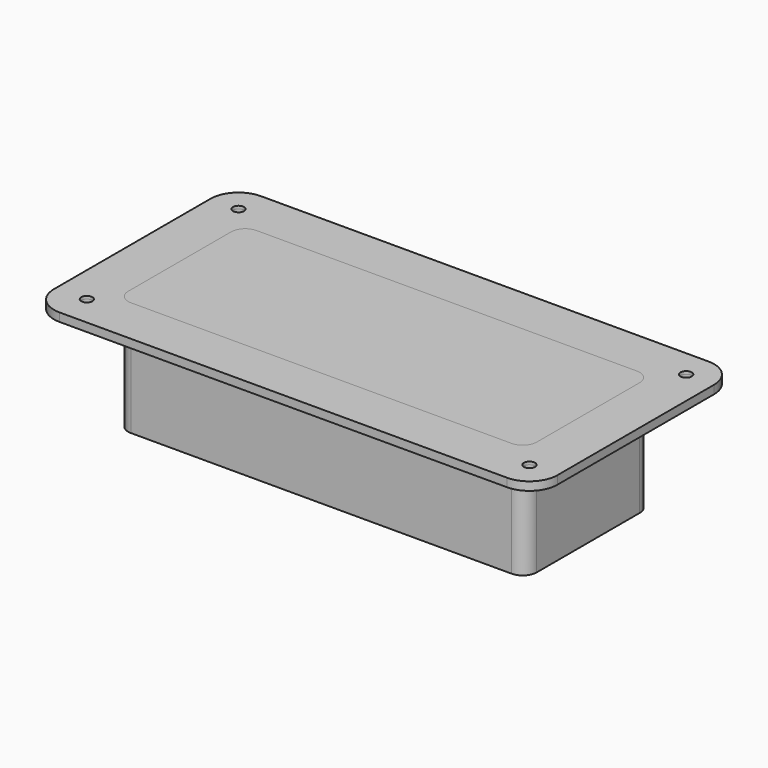
from build123d import *

# Parameters (mm, degrees)
F1_DEPTH = 40
F0_R     = 2
F2_DEPTH = 1
F3_DEPTH = 2
F4_DEPTH = 1


with BuildPart() as f1:
    # F0 (on Top) → F1 (new body)
    with BuildSketch(Plane.XY):
        with BuildLine():
            Line((23.4693709612, 14.670217514), (-112.5306290388, 14.670217514))
            ThreePointArc((-112.5306290388, 14.670217514), (-116.0661629447, 13.20575142), (-117.5306290388, 9.670217514))
            Line((-117.5306290388, 9.670217514), (-117.5306290388, -36.329782486))
            ThreePointArc((-117.5306290388, -36.329782486), (-116.0661629447, -39.8653163919), (-112.5306290388, -41.329782486))
            Line((-112.5306290388, -41.329782486), (23.4693709612, -41.329782486))
            ThreePointArc((23.4693709612, -41.329782486), (27.0049048671, -39.8653163919), (28.4693709612, -36.329782486))
            Line((28.4693709612, -36.329782486), (28.4693709612, 9.670217514))
            ThreePointArc((28.4693709612, 9.670217514), (27.0049048671, 13.20575142), (23.4693709612, 14.670217514))
        make_face()
        with BuildLine():
            ThreePointArc((-114.5306290388, 9.670217514), (-113.9448426012, 11.0844310764), (-112.5306290388, 11.670217514))
            Line((-112.5306290388, 11.670217514), (23.4693709612, 11.670217514))
            ThreePointArc((23.4693709612, 11.670217514), (24.8835845236, 11.0844310764), (25.4693709612, 9.670217514))
            Line((25.4693709612, 9.670217514), (25.4693709612, -36.329782486))
            ThreePointArc((25.4693709612, -36.329782486), (24.8835845236, -37.7439960483), (23.4693709612, -38.329782486))
            Line((23.4693709612, -38.329782486), (-112.5306290388, -38.329782486))
            ThreePointArc((-112.5306290388, -38.329782486), (-113.9448426012, -37.7439960483), (-114.5306290388, -36.329782486))
            Line((-114.5306290388, -36.329782486), (-114.5306290388, 9.670217514))
        make_face(mode=Mode.SUBTRACT)
    extrude(amount=-F1_DEPTH)



with BuildPart() as f2:
    # F0 (on Top) → F2 (new body)
    with BuildSketch(Plane.XY):
        with BuildLine():
            ThreePointArc((-124.5306290388, 31.670217514), (-131.6016968507, 28.7412853259), (-134.5306290388, 21.670217514))
            Line((-134.5306290388, 21.670217514), (-134.5306290388, -48.329782486))
            ThreePointArc((-134.5306290388, -48.329782486), (-131.6016968507, -55.4008502978), (-124.5306290388, -58.329782486))
            Line((-124.5306290388, -58.329782486), (35.4693709612, -58.329782486))
            ThreePointArc((35.4693709612, -58.329782486), (42.5404387731, -55.4008502978), (45.4693709612, -48.329782486))
            Line((45.4693709612, -48.329782486), (45.4693709612, 21.670217514))
            ThreePointArc((45.4693709612, 21.670217514), (42.5404387731, 28.7412853259), (35.4693709612, 31.670217514))
            Line((35.4693709612, 31.670217514), (-124.5306290388, 31.670217514))
        make_face()
        with Locations((-123.5306290388, -47.329782486)):
            Circle(F0_R, mode=Mode.SUBTRACT)
        with Locations((35.4693709612, -48.329782486)):
            Circle(F0_R, mode=Mode.SUBTRACT)
        with Locations((-124.5306290388, 21.670217514)):
            Circle(F0_R, mode=Mode.SUBTRACT)
        with BuildLine():
            ThreePointArc((-117.5306290388, 9.670217514), (-116.0661629447, 13.20575142), (-112.5306290388, 14.670217514))
            Line((-112.5306290388, 14.670217514), (23.4693709612, 14.670217514))
            ThreePointArc((23.4693709612, 14.670217514), (27.0049048671, 13.20575142), (28.4693709612, 9.670217514))
            Line((28.4693709612, 9.670217514), (28.4693709612, -36.329782486))
            ThreePointArc((28.4693709612, -36.329782486), (27.0049048671, -39.8653163919), (23.4693709612, -41.329782486))
            Line((23.4693709612, -41.329782486), (-112.5306290388, -41.329782486))
            ThreePointArc((-112.5306290388, -41.329782486), (-116.0661629447, -39.8653163919), (-117.5306290388, -36.329782486))
            Line((-117.5306290388, -36.329782486), (-117.5306290388, 9.670217514))
        make_face(mode=Mode.SUBTRACT)
        with Locations((35.4693709612, 21.670217514)):
            Circle(F0_R, mode=Mode.SUBTRACT)
    extrude(amount=F2_DEPTH)


with BuildPart() as f1_1:
    add(f1.part)

    add(f2.part)  # F3 merges F2
    # F0 (on Top) → F3 (join)
    with BuildSketch(Plane.XY):
        with BuildLine():
            ThreePointArc((-124.5306290388, 31.670217514), (-131.6016968507, 28.7412853259), (-134.5306290388, 21.670217514))
            Line((-134.5306290388, 21.670217514), (-134.5306290388, -48.329782486))
            ThreePointArc((-134.5306290388, -48.329782486), (-131.6016968507, -55.4008502978), (-124.5306290388, -58.329782486))
            Line((-124.5306290388, -58.329782486), (35.4693709612, -58.329782486))
            ThreePointArc((35.4693709612, -58.329782486), (42.5404387731, -55.4008502978), (45.4693709612, -48.329782486))
            Line((45.4693709612, -48.329782486), (45.4693709612, 21.670217514))
            ThreePointArc((45.4693709612, 21.670217514), (42.5404387731, 28.7412853259), (35.4693709612, 31.670217514))
            Line((35.4693709612, 31.670217514), (-124.5306290388, 31.670217514))
        make_face()
        with Locations((-123.5306290388, -47.329782486)):
            Circle(F0_R, mode=Mode.SUBTRACT)
        with Locations((35.4693709612, -48.329782486)):
            Circle(F0_R, mode=Mode.SUBTRACT)
        with Locations((-124.5306290388, 21.670217514)):
            Circle(F0_R, mode=Mode.SUBTRACT)
        with BuildLine():
            ThreePointArc((-117.5306290388, 9.670217514), (-116.0661629447, 13.20575142), (-112.5306290388, 14.670217514))
            Line((-112.5306290388, 14.670217514), (23.4693709612, 14.670217514))
            ThreePointArc((23.4693709612, 14.670217514), (27.0049048671, 13.20575142), (28.4693709612, 9.670217514))
            Line((28.4693709612, 9.670217514), (28.4693709612, -36.329782486))
            ThreePointArc((28.4693709612, -36.329782486), (27.0049048671, -39.8653163919), (23.4693709612, -41.329782486))
            Line((23.4693709612, -41.329782486), (-112.5306290388, -41.329782486))
            ThreePointArc((-112.5306290388, -41.329782486), (-116.0661629447, -39.8653163919), (-117.5306290388, -36.329782486))
            Line((-117.5306290388, -36.329782486), (-117.5306290388, 9.670217514))
        make_face(mode=Mode.SUBTRACT)
        with Locations((35.4693709612, 21.670217514)):
            Circle(F0_R, mode=Mode.SUBTRACT)
    extrude(amount=-F3_DEPTH)

    # F0 (on Top) → F4 (join)
    with BuildSketch(Plane.XY):
        with BuildLine():
            Line((23.4693709612, 14.670217514), (-112.5306290388, 14.670217514))
            ThreePointArc((-112.5306290388, 14.670217514), (-116.0661629447, 13.20575142), (-117.5306290388, 9.670217514))
            Line((-117.5306290388, 9.670217514), (-117.5306290388, -36.329782486))
            ThreePointArc((-117.5306290388, -36.329782486), (-116.0661629447, -39.8653163919), (-112.5306290388, -41.329782486))
            Line((-112.5306290388, -41.329782486), (23.4693709612, -41.329782486))
            ThreePointArc((23.4693709612, -41.329782486), (27.0049048671, -39.8653163919), (28.4693709612, -36.329782486))
            Line((28.4693709612, -36.329782486), (28.4693709612, 9.670217514))
            ThreePointArc((28.4693709612, 9.670217514), (27.0049048671, 13.20575142), (23.4693709612, 14.670217514))
        make_face()
        with BuildLine():
            ThreePointArc((-114.5306290388, 9.670217514), (-113.9448426012, 11.0844310764), (-112.5306290388, 11.670217514))
            Line((-112.5306290388, 11.670217514), (23.4693709612, 11.670217514))
            ThreePointArc((23.4693709612, 11.670217514), (24.8835845236, 11.0844310764), (25.4693709612, 9.670217514))
            Line((25.4693709612, 9.670217514), (25.4693709612, -36.329782486))
            ThreePointArc((25.4693709612, -36.329782486), (24.8835845236, -37.7439960483), (23.4693709612, -38.329782486))
            Line((23.4693709612, -38.329782486), (-112.5306290388, -38.329782486))
            ThreePointArc((-112.5306290388, -38.329782486), (-113.9448426012, -37.7439960483), (-114.5306290388, -36.329782486))
            Line((-114.5306290388, -36.329782486), (-114.5306290388, 9.670217514))
        make_face(mode=Mode.SUBTRACT)
        with BuildLine():
            Line((23.4693709612, 11.670217514), (-112.5306290388, 11.670217514))
            ThreePointArc((-112.5306290388, 11.670217514), (-113.9448426012, 11.0844310764), (-114.5306290388, 9.670217514))
            Line((-114.5306290388, 9.670217514), (-114.5306290388, -36.329782486))
            ThreePointArc((-114.5306290388, -36.329782486), (-113.9448426012, -37.7439960483), (-112.5306290388, -38.329782486))
            Line((-112.5306290388, -38.329782486), (23.4693709612, -38.329782486))
            ThreePointArc((23.4693709612, -38.329782486), (24.8835845236, -37.7439960483), (25.4693709612, -36.329782486))
            Line((25.4693709612, -36.329782486), (25.4693709612, 9.670217514))
            ThreePointArc((25.4693709612, 9.670217514), (24.8835845236, 11.0844310764), (23.4693709612, 11.670217514))
        make_face()
    extrude(amount=F4_DEPTH)


solid = f1_1.part
